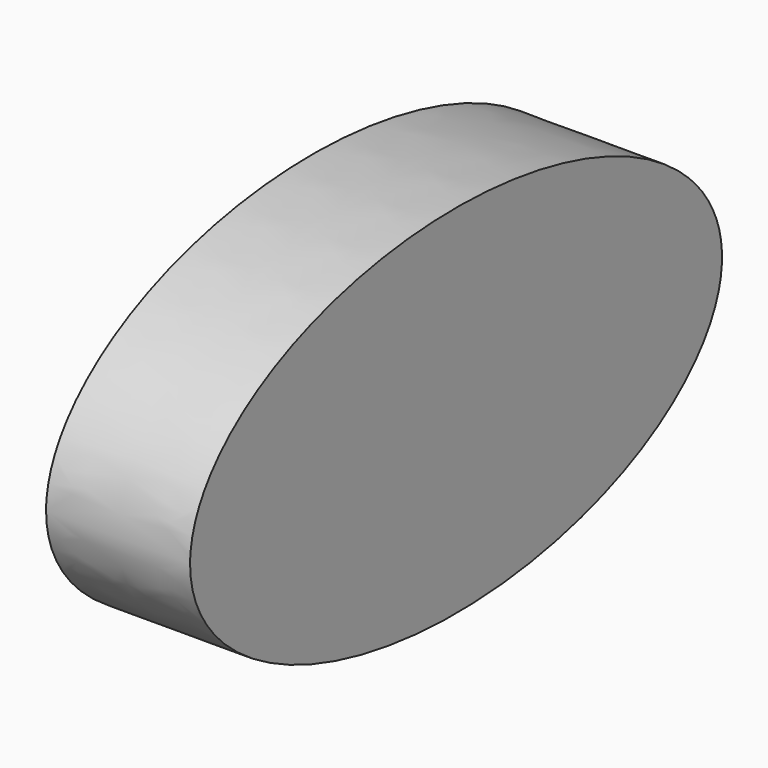
from build123d import *

# Parameters (mm, degrees)
F1_DEPTH = 25.4


with BuildPart() as f1:
    # F0 (on Right) → F1 (new body)
    with BuildSketch(Plane.YZ):
        with BuildLine():
            add(Edge.make_bspline(
                [(-58.628019, 0), (-58.628019, -54.549955), (29.314009, -27.274977), (117.256038, 0), (29.314009, 27.274977), (-58.628019, 54.549955), (-58.628019, 0)],
                knots=[0, 0, 0, 2.094395, 2.094395, 4.18879, 4.18879, 6.283185, 6.283185, 6.283185], degree=2, weights=[1, 0.5, 1, 0.5, 1, 0.5, 1]))
        make_face()
    extrude(amount=F1_DEPTH)


solid = f1.part
